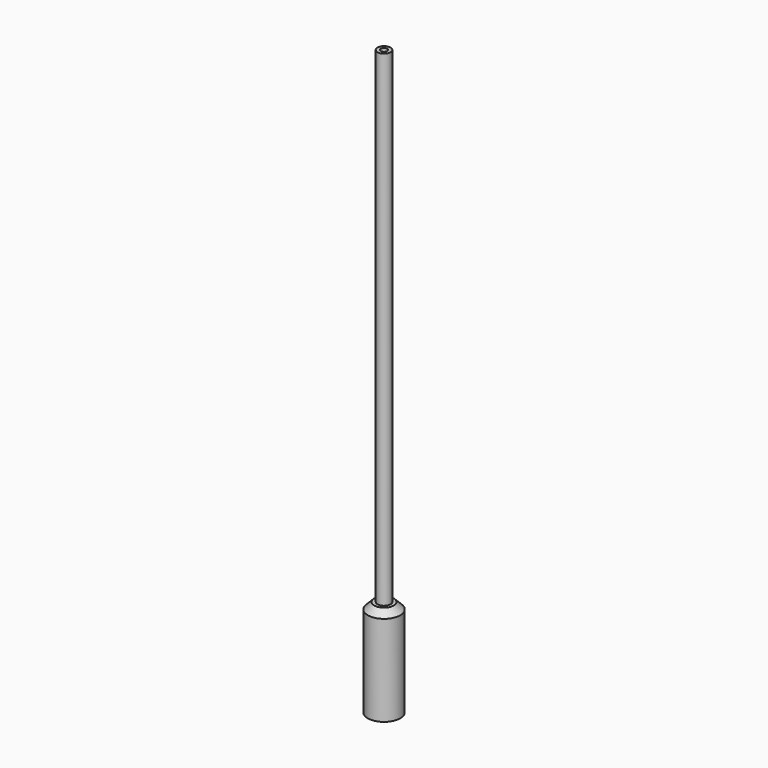
from build123d import *

# Parameters (mm, degrees)
F0_R     = 12.7
F0_R_2   = 5.08
F0_R_3   = 2.54
F1_DEPTH = 76.2
F2_DEPTH = 58.42
F3_START = 71.628
F3_DEPTH = 385.572
F4_SIZE  = 5.08


with BuildPart() as f1:
    # F0 (on Top) → F1 (new body)
    with BuildSketch(Plane.XY):
        Circle(F0_R)
        Circle(F0_R_2, mode=Mode.SUBTRACT)
        Circle(F0_R_2)
        Circle(F0_R_3, mode=Mode.SUBTRACT)
        Circle(F0_R_3)
    extrude(amount=F1_DEPTH)

    # F0 (on Top) → F2 (cut)
    with BuildSketch(Plane.XY):
        Circle(F0_R_2)
        Circle(F0_R_3, mode=Mode.SUBTRACT)
        Circle(F0_R_3)
    extrude(amount=F2_DEPTH, mode=Mode.SUBTRACT)

    # F0 (on Top) → F3 (join)
    with BuildSketch(Plane.XY.offset(F3_START)):
        Circle(F0_R_2)
        Circle(F0_R_3, mode=Mode.SUBTRACT)
    extrude(amount=F3_DEPTH)

    # F4
    f4_edges = [f1.edges().sort_by_distance(p)[0] for p in [
        (-12.7, 0, 76.2),
    ]]
    chamfer(f4_edges, length=F4_SIZE)


solid = f1.part
